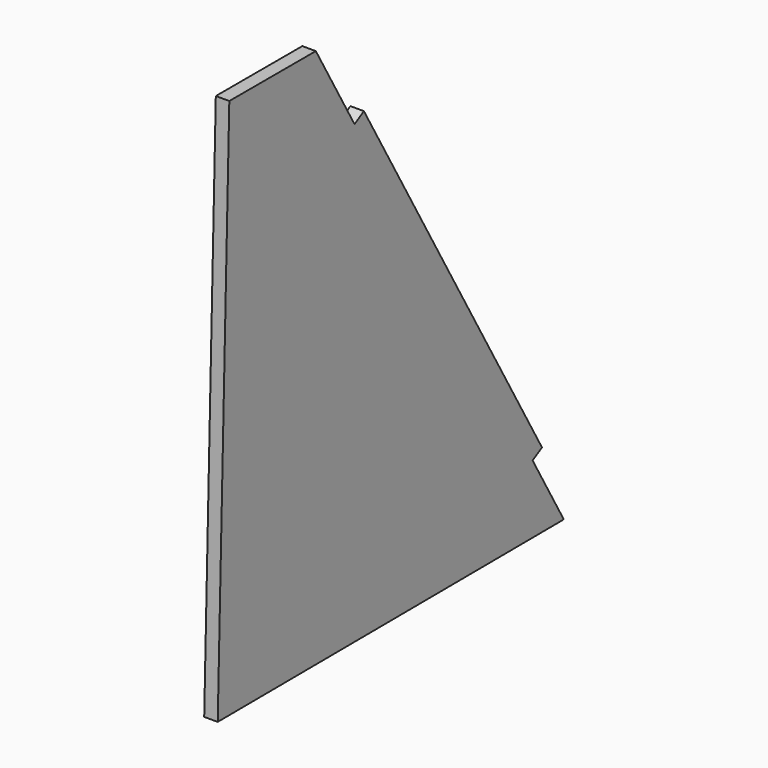
from build123d import *

# Parameters (mm, degrees)
F1_DEPTH = 12.7


with BuildPart() as f1:
    # F0 (on Right) → F1 (new body)
    with BuildSketch(Plane.YZ):
        Polygon((5.305482, 480.825944), (-8.301662, -27.174056), (398.098338, -24.906198), (361.476894, 38.696464), (152.353483, 401.893668), (106.905482, 480.825944), align=None)
        Polygon((152.353483, 401.893668), (361.476894, 38.696464), (372.48287, 45.033538), (334.460432, 111.069393), (315.449213, 144.08732), (277.426774, 210.123176), (258.415555, 243.141103), (220.393116, 309.176958), (201.381897, 342.194886), (163.359459, 408.230741), align=None)
    extrude(amount=F1_DEPTH)


solid = f1.part
